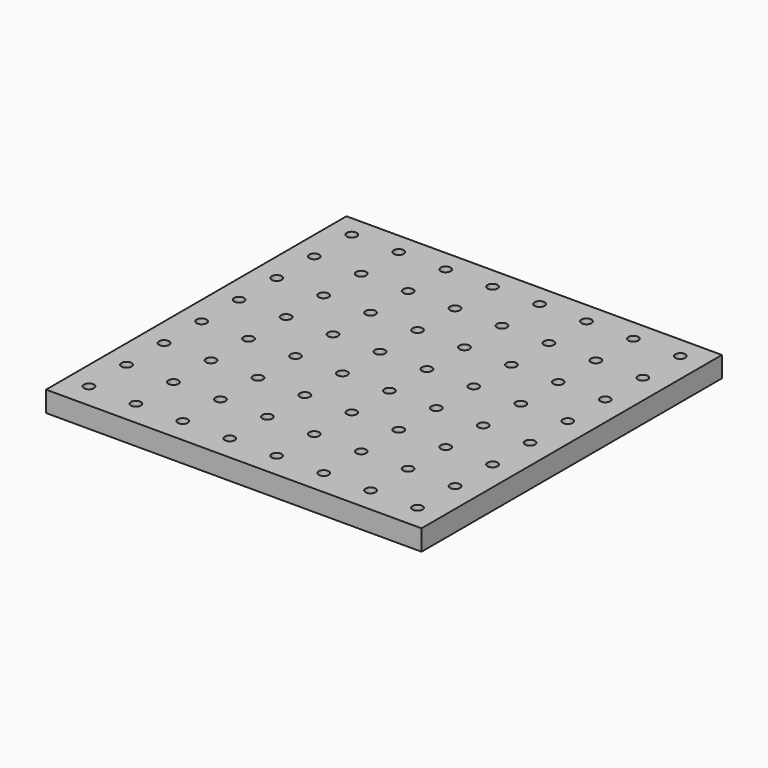
from build123d import *

# Parameters (mm, degrees)
F0_W     = 120
F0_H     = 120
F0_R     = 1.6
F1_DEPTH = 6
F2_W     = 120
F2_H     = 120
F3_DEPTH = 0.6


with BuildPart() as f1:
    # F0 (on Top) → F1 (new body)
    with BuildSketch(Plane.XY):
        Rectangle(F0_W, F0_H)
        with Locations((-52.72189, -51.956826)):
            Circle(F0_R, mode=Mode.SUBTRACT)
        with Locations((-37.72189, -51.956826)):
            Circle(F0_R, mode=Mode.SUBTRACT)
        with Locations((-52.72189, -36.956826)):
            Circle(F0_R, mode=Mode.SUBTRACT)
        with Locations((-37.72189, -36.956826)):
            Circle(F0_R, mode=Mode.SUBTRACT)
        with Locations((-22.72189, -51.956826)):
            Circle(F0_R, mode=Mode.SUBTRACT)
        with Locations((-7.72189, -51.956826)):
            Circle(F0_R, mode=Mode.SUBTRACT)
        with Locations((-22.72189, -36.956826)):
            Circle(F0_R, mode=Mode.SUBTRACT)
        with Locations((-7.72189, -36.956826)):
            Circle(F0_R, mode=Mode.SUBTRACT)
        with Locations((-52.72189, -21.956826)):
            Circle(F0_R, mode=Mode.SUBTRACT)
        with Locations((-37.72189, -21.956826)):
            Circle(F0_R, mode=Mode.SUBTRACT)
        with Locations((-52.72189, -6.956826)):
            Circle(F0_R, mode=Mode.SUBTRACT)
        with Locations((-37.72189, -6.956826)):
            Circle(F0_R, mode=Mode.SUBTRACT)
        with Locations((-22.72189, -21.956826)):
            Circle(F0_R, mode=Mode.SUBTRACT)
        with Locations((-7.72189, -21.956826)):
            Circle(F0_R, mode=Mode.SUBTRACT)
        with Locations((-22.72189, -6.956826)):
            Circle(F0_R, mode=Mode.SUBTRACT)
        with Locations((-7.72189, -6.956826)):
            Circle(F0_R, mode=Mode.SUBTRACT)
        with Locations((7.27811, -51.956826)):
            Circle(F0_R, mode=Mode.SUBTRACT)
        with Locations((22.27811, -51.956826)):
            Circle(F0_R, mode=Mode.SUBTRACT)
        with Locations((7.27811, -36.956826)):
            Circle(F0_R, mode=Mode.SUBTRACT)
        with Locations((22.27811, -36.956826)):
            Circle(F0_R, mode=Mode.SUBTRACT)
        with Locations((37.27811, -51.956826)):
            Circle(F0_R, mode=Mode.SUBTRACT)
        with Locations((52.27811, -51.956826)):
            Circle(F0_R, mode=Mode.SUBTRACT)
        with Locations((37.27811, -36.956826)):
            Circle(F0_R, mode=Mode.SUBTRACT)
        with Locations((52.27811, -36.956826)):
            Circle(F0_R, mode=Mode.SUBTRACT)
        with Locations((7.27811, -21.956826)):
            Circle(F0_R, mode=Mode.SUBTRACT)
        with Locations((22.27811, -21.956826)):
            Circle(F0_R, mode=Mode.SUBTRACT)
        with Locations((7.27811, -6.956826)):
            Circle(F0_R, mode=Mode.SUBTRACT)
        with Locations((22.27811, -6.956826)):
            Circle(F0_R, mode=Mode.SUBTRACT)
        with Locations((37.27811, -21.956826)):
            Circle(F0_R, mode=Mode.SUBTRACT)
        with Locations((52.27811, -21.956826)):
            Circle(F0_R, mode=Mode.SUBTRACT)
        with Locations((37.27811, -6.956826)):
            Circle(F0_R, mode=Mode.SUBTRACT)
        with Locations((52.27811, -6.956826)):
            Circle(F0_R, mode=Mode.SUBTRACT)
        with Locations((-52.72189, 8.043174)):
            Circle(F0_R, mode=Mode.SUBTRACT)
        with Locations((-37.72189, 8.043174)):
            Circle(F0_R, mode=Mode.SUBTRACT)
        with Locations((-52.72189, 23.043174)):
            Circle(F0_R, mode=Mode.SUBTRACT)
        with Locations((-37.72189, 23.043174)):
            Circle(F0_R, mode=Mode.SUBTRACT)
        with Locations((-22.72189, 8.043174)):
            Circle(F0_R, mode=Mode.SUBTRACT)
        with Locations((-7.72189, 8.043174)):
            Circle(F0_R, mode=Mode.SUBTRACT)
        with Locations((-22.72189, 23.043174)):
            Circle(F0_R, mode=Mode.SUBTRACT)
        with Locations((-7.72189, 23.043174)):
            Circle(F0_R, mode=Mode.SUBTRACT)
        with Locations((-52.72189, 38.043174)):
            Circle(F0_R, mode=Mode.SUBTRACT)
        with Locations((-37.72189, 38.043174)):
            Circle(F0_R, mode=Mode.SUBTRACT)
        with Locations((-52.72189, 53.043174)):
            Circle(F0_R, mode=Mode.SUBTRACT)
        with Locations((-37.72189, 53.043174)):
            Circle(F0_R, mode=Mode.SUBTRACT)
        with Locations((-22.72189, 38.043174)):
            Circle(F0_R, mode=Mode.SUBTRACT)
        with Locations((-7.72189, 38.043174)):
            Circle(F0_R, mode=Mode.SUBTRACT)
        with Locations((-22.72189, 53.043174)):
            Circle(F0_R, mode=Mode.SUBTRACT)
        with Locations((-7.72189, 53.043174)):
            Circle(F0_R, mode=Mode.SUBTRACT)
        with Locations((7.27811, 8.043174)):
            Circle(F0_R, mode=Mode.SUBTRACT)
        with Locations((22.27811, 8.043174)):
            Circle(F0_R, mode=Mode.SUBTRACT)
        with Locations((7.27811, 23.043174)):
            Circle(F0_R, mode=Mode.SUBTRACT)
        with Locations((22.27811, 23.043174)):
            Circle(F0_R, mode=Mode.SUBTRACT)
        with Locations((37.27811, 8.043174)):
            Circle(F0_R, mode=Mode.SUBTRACT)
        with Locations((52.27811, 8.043174)):
            Circle(F0_R, mode=Mode.SUBTRACT)
        with Locations((37.27811, 23.043174)):
            Circle(F0_R, mode=Mode.SUBTRACT)
        with Locations((52.27811, 23.043174)):
            Circle(F0_R, mode=Mode.SUBTRACT)
        with Locations((7.27811, 38.043174)):
            Circle(F0_R, mode=Mode.SUBTRACT)
        with Locations((22.27811, 38.043174)):
            Circle(F0_R, mode=Mode.SUBTRACT)
        with Locations((7.27811, 53.043174)):
            Circle(F0_R, mode=Mode.SUBTRACT)
        with Locations((22.27811, 53.043174)):
            Circle(F0_R, mode=Mode.SUBTRACT)
        with Locations((37.27811, 38.043174)):
            Circle(F0_R, mode=Mode.SUBTRACT)
        with Locations((52.27811, 38.043174)):
            Circle(F0_R, mode=Mode.SUBTRACT)
        with Locations((37.27811, 53.043174)):
            Circle(F0_R, mode=Mode.SUBTRACT)
        with Locations((52.27811, 53.043174)):
            Circle(F0_R, mode=Mode.SUBTRACT)
    extrude(amount=F1_DEPTH)

    # F2 (on face) → F3 (join)
    with BuildSketch(Plane(origin=(0, 0, 0), x_dir=(1, 0, 0), z_dir=(0, 0, -1))):
        Rectangle(F2_W, F2_H)
    extrude(amount=F3_DEPTH)


solid = f1.part
